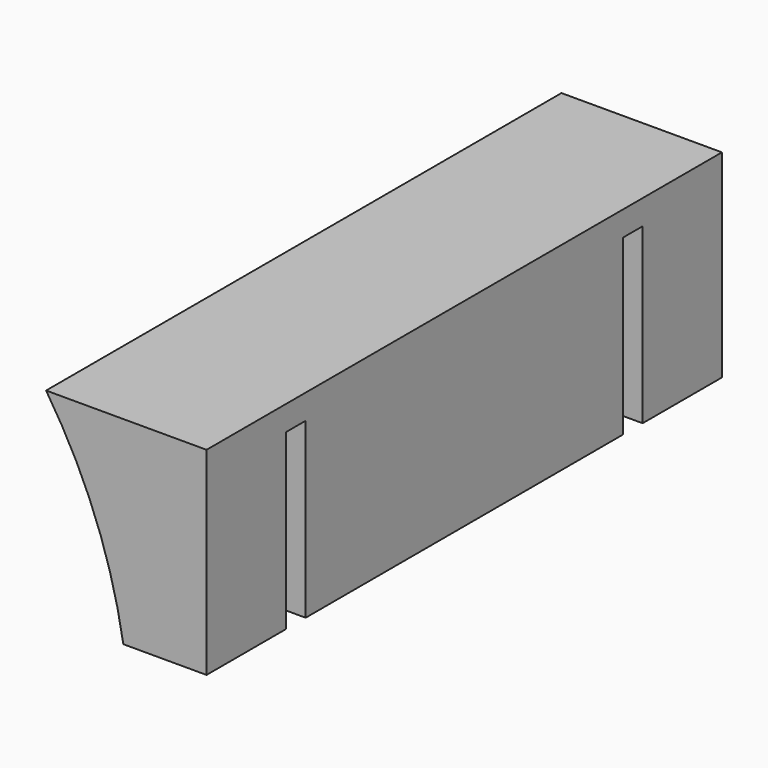
from build123d import *

# Parameters (mm, degrees)
F1_DEPTH = 165.1
F3_W     = 120.2936734515
F3_H     = 44.45
F4_DEPTH = 6.35
F6_W     = 105.5140421895
F6_H     = 44.45
F7_DEPTH = 6.35


with BuildPart() as f1:
    # F0 (on Front) → F1 (new body)
    with BuildSketch(Plane.XZ):
        with BuildLine():
            ThreePointArc((55.2767035972, 50.8), (67.8600718832, 26.4462179087), (75.0743229112, 0))
            Line((75.0743229112, 0), (96.4022464211, 0))
            Line((96.4022464211, 0), (96.4022464211, 50.8))
            Line((96.4022464211, 50.8), (55.2767035972, 50.8))
        make_face()
    extrude(amount=F1_DEPTH)

    # F3 (on offset) → F4 (cut)
    with BuildSketch(Plane.XZ.offset(139.7)):
        with Locations((60.1468367257, 22.225)):
            Rectangle(F3_W, F3_H)
    extrude(amount=-F4_DEPTH, mode=Mode.SUBTRACT)

    # F6 (on offset) → F7 (cut)
    with BuildSketch(Plane(origin=(0, -25.4, 0), x_dir=(-1, 0, 0), z_dir=(0, 1, 0))):
        with Locations((-52.7570210947, 22.225)):
            Rectangle(F6_W, F6_H)
    extrude(amount=-F7_DEPTH, mode=Mode.SUBTRACT)


solid = f1.part
